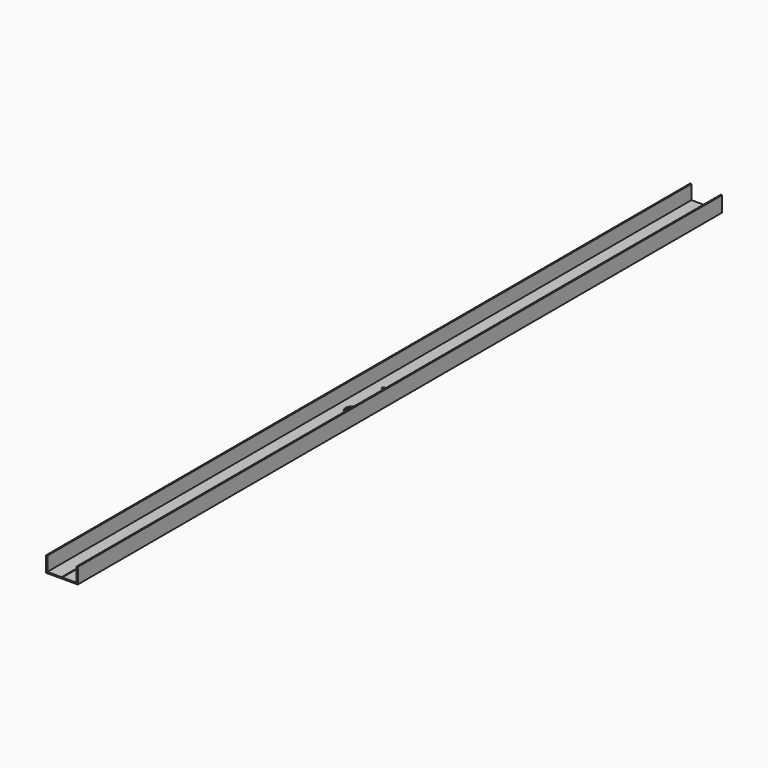
from build123d import *

# Parameters (mm, degrees)
F1_DEPTH = 495
F2_R     = 1.6
F3_DEPTH = 1.501
F4_R     = 7.5
F5_DEPTH = 1.501


with BuildPart() as f1:
    # F0 (on Front) → F1 (new body, symmetric)
    with BuildSketch(Plane.XZ):
        Polygon((-19.5, 19.05), (-19.5, 0), (-0.45, 0), (-0.45, 1.5), (-18, 1.5), (-18, 19.05), align=None)
    extrude(amount=F1_DEPTH, both=True)


with BuildPart() as f1b:
    # F0 (on Front) → F1, piece 2 (new body, symmetric)
    with BuildSketch(Plane.XZ):
        Polygon((0.45, 0), (19.5, 0), (19.5, 19.05), (18, 19.05), (18, 1.5), (0.45, 1.5), align=None)
    extrude(amount=F1_DEPTH, both=True)


with BuildPart() as f3_tool:
    # F2 (on face) → F3 (new body, through all)
    with BuildSketch(Plane.XY.offset(1.5)):
        with Locations((-4.875, 5)):
            Circle(F2_R)
        with Locations((4.875, 5)):
            Circle(F2_R)
    extrude(amount=-F3_DEPTH)


with BuildPart() as f1_1:
    add(f1.part)

    # F3: cut by f3_tool
    add(f3_tool.part, mode=Mode.SUBTRACT)


with BuildPart() as f1b_1:
    add(f1b.part)

    # F3: cut by f3_tool
    add(f3_tool.part, mode=Mode.SUBTRACT)


with BuildPart() as f5_tool:
    # F4 (on face) → F5 (new body, through all)
    with BuildSketch(Plane.XY.offset(1.5)):
        with Locations((0, -50)):
            Circle(F4_R)
    extrude(amount=-F5_DEPTH)


with BuildPart() as f1_2:
    add(f1_1.part)

    # F5: cut by f5_tool
    add(f5_tool.part, mode=Mode.SUBTRACT)


with BuildPart() as f1b_2:
    add(f1b_1.part)

    # F5: cut by f5_tool
    add(f5_tool.part, mode=Mode.SUBTRACT)


solid = Compound([f1_2.part, f1b_2.part])
